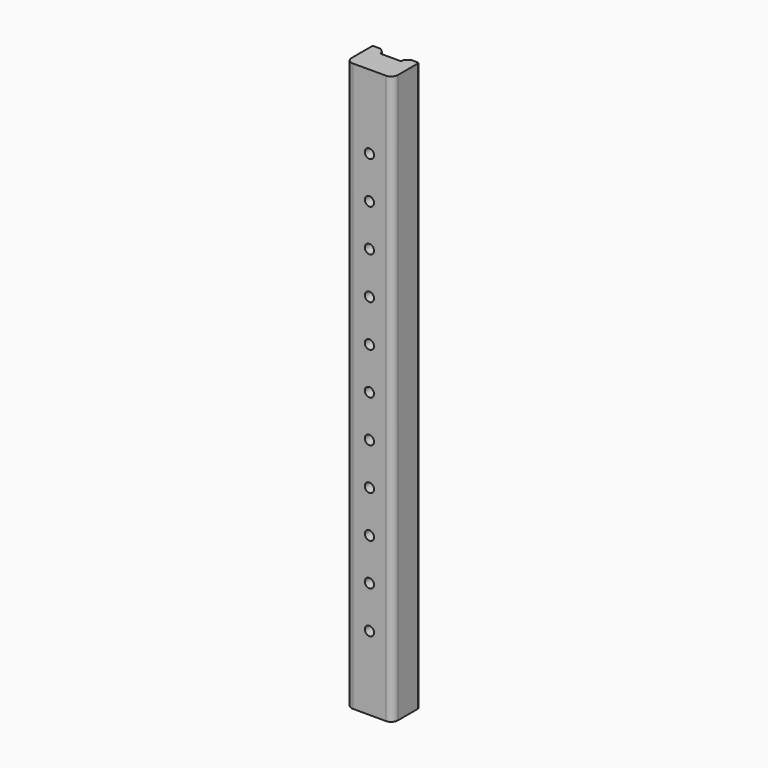
from build123d import *

# Parameters (mm, degrees)
F1_DEPTH = 430
F3_D     = 7


with BuildPart() as f1:
    # F0 (on Top) → F1 (new body)
    with BuildSketch(Plane.XY):
        with BuildLine():
            Line((-30, 0), (-5, 0))
            ThreePointArc((-5, 0), (-1.464466, 1.464466), (0, 5))
            Line((0, 5), (0, 24))
            ThreePointArc((0, 24), (-0.292893, 24.707107), (-1, 25))
            Line((-1, 25), (-6, 25))
            Line((-6, 25), (-9.5, 22))
            Line((-9.5, 22), (-9.5, 20))
            Line((-9.5, 20), (-17.5, 20))
            Line((-17.5, 20), (-25.5, 20))
            Line((-25.5, 20), (-25.5, 22))
            Line((-25.5, 22), (-29, 25))
            Line((-29, 25), (-34, 25))
            ThreePointArc((-34, 25), (-34.707107, 24.707107), (-35, 24))
            Line((-35, 24), (-35, 5))
            ThreePointArc((-35, 5), (-33.535534, 1.464466), (-30, 0))
        make_face()
    extrude(amount=F1_DEPTH)

    # F3 (through all)
    with Locations(Plane.XZ):
        with Locations((-17.5, 374), (-17.5, 342.2), (-17.5, 310.4), (-17.5, 278.6), (-17.5, 246.8), (-17.5, 215), (-17.5, 183.2), (-17.5, 151.4), (-17.5, 119.6), (-17.5, 87.8), (-17.5, 56)):
            Hole(F3_D / 2)


solid = f1.part
